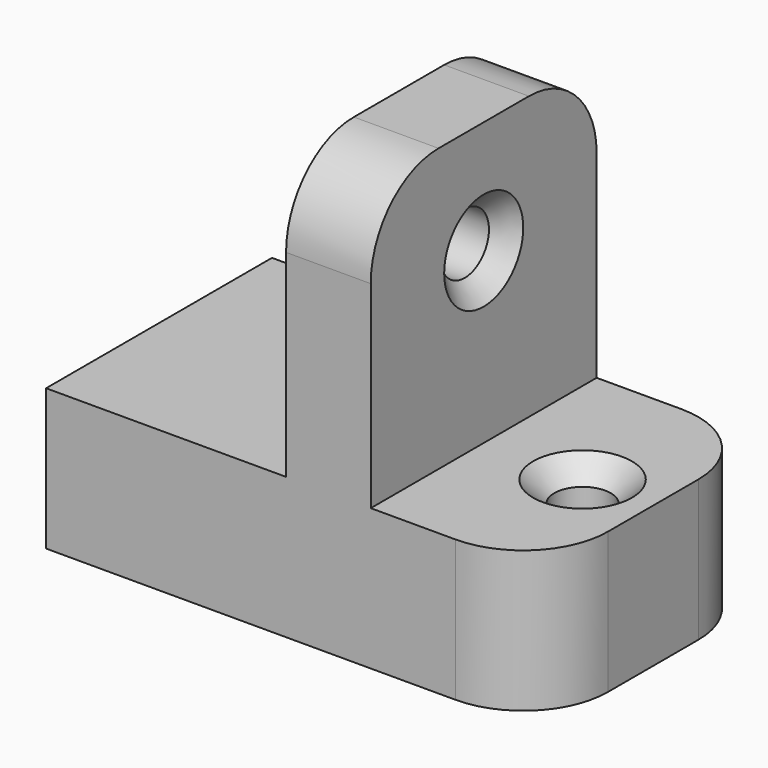
from build123d import *

# Parameters (mm, degrees)
F0_R            = 2
F1_DEPTH        = 10
F2_W            = 6
F2_H            = 20
F3_DEPTH        = 20
F4_R            = 2.15
F5_DEPTH        = 25
F6_R            = 6
F8_D            = 4
F8_DEPTH        = 7
F8_CSINK_D      = 7
F8_CSINK_ANGLE  = 90
F10_D           = 4
F10_DEPTH       = 12
F10_CSINK_D     = 7
F10_CSINK_ANGLE = 90


with BuildPart() as f1:
    # F0 (on Top) → F1 (new body)
    with BuildSketch(Plane.XY):
        with Locations((12.5, 0)):
            Circle(F0_R)
        Polygon((17.5, 0), (17.5, 10), (-17.5, 10), (-17.5, -10), (17.5, -10), align=None)
        with Locations((12.5, 0)):
            Circle(F0_R, mode=Mode.SUBTRACT)
    extrude(amount=-F1_DEPTH)

    # F2 (on face) → F3 (join)
    with BuildSketch(Plane.XY):
        with Locations((2.5, 0)):
            Rectangle(F2_W, F2_H)
    extrude(amount=F3_DEPTH)

    # F4 (on face) → F5 (cut)
    with BuildSketch(Plane.YZ.offset(5.5)):
        with Locations((0, 12)):
            Circle(F4_R)
    extrude(amount=-F5_DEPTH, mode=Mode.SUBTRACT)

    # F6
    f6_edges = [f1.edges().sort_by_distance(p)[0] for p in [
        (2.5, -10, 20),
        (2.5, 10, 20),
        (17.5, 10, -5),
        (17.5, -10, -5),
    ]]
    fillet(f6_edges, radius=F6_R)

    # F8
    with Locations(Plane.YZ.offset(5.5)):
        with Locations((0, 12)):
            CounterSinkHole(F8_D / 2, F8_CSINK_D / 2, depth=F8_DEPTH, counter_sink_angle=F8_CSINK_ANGLE)

    # F10
    with Locations(Plane.XY):
        with Locations((12.5, 0)):
            CounterSinkHole(F10_D / 2, F10_CSINK_D / 2, depth=F10_DEPTH, counter_sink_angle=F10_CSINK_ANGLE)


solid = f1.part
